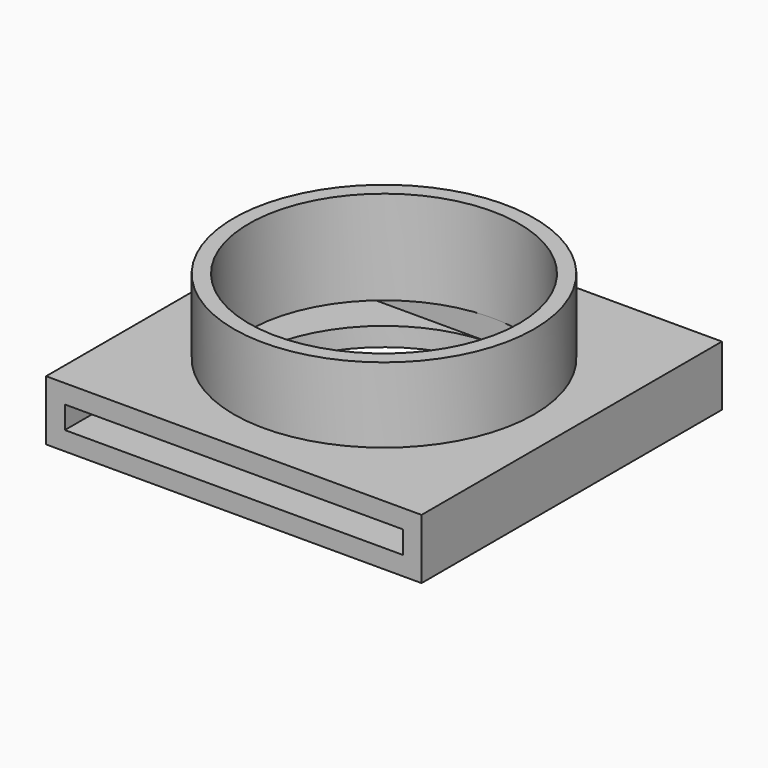
from build123d import *

# Parameters (mm, degrees)
SKETCH_W        = 50
SKETCH_H        = 50
PAD_DEPTH       = 8
SKETCH001_R     = 20
PAD001_DEPTH    = 10
SKETCH002_R     = 17.994409
POCKET_DEPTH    = 18.001
SKETCH003_W     = 45
SKETCH003_H     = 3
POCKET001_DEPTH = 43


with BuildPart() as part:
    # Sketch → Pad (new body)
    with BuildSketch(Plane.XY):
        Rectangle(SKETCH_W, SKETCH_H)
    extrude(amount=PAD_DEPTH)

    # Sketch001 → Pad001 (new body)
    with BuildSketch(Plane.XY.offset(8)):
        Circle(SKETCH001_R)
    extrude(amount=PAD001_DEPTH)

    # Sketch002 → Pocket (cut, through all)
    with BuildSketch(Plane.XY.offset(18)):
        Circle(SKETCH002_R)
    extrude(amount=-POCKET_DEPTH, mode=Mode.SUBTRACT)

    # Sketch003 → Pocket001 (cut)
    with BuildSketch(Plane.XZ.offset(25)):
        with Locations((0, 4)):
            Rectangle(SKETCH003_W, SKETCH003_H)
    extrude(amount=-POCKET001_DEPTH, mode=Mode.SUBTRACT)


solid = part.part
